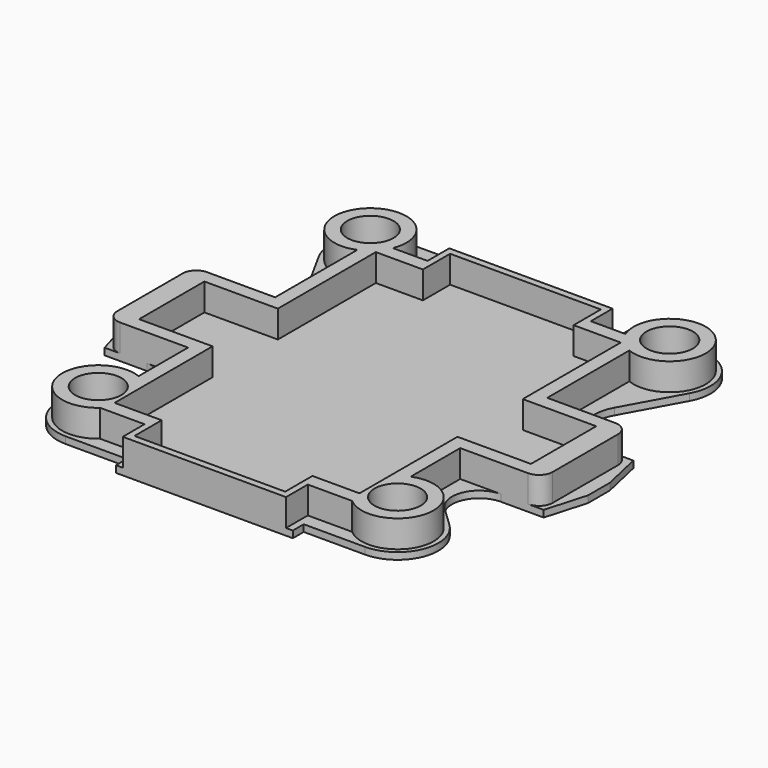
from build123d import *

# Parameters (mm, degrees)
F1_DEPTH = 3.175
F3_DEPTH = 12.7
F5_DEPTH = 12.7
F6_R     = 10.795
F7_DEPTH = 12.7


with BuildPart() as f1:
    # F0 (on Top) → F1 (new body)
    with BuildSketch(Plane.XY):
        with BuildLine():
            Line((72.204018, 53.623151), (86.545982, 79.726849))
            ThreePointArc((86.545982, 79.726849), (86.245899, 98.599329), (69.85, 107.95))
            Line((69.85, 107.95), (38.1, 107.95))
            Line((38.1, 107.95), (38.1, 95.25))
            Line((38.1, 95.25), (-38.1, 95.25))
            Line((-38.1, 95.25), (-38.1, 107.95))
            Line((-38.1, 107.95), (-69.85, 107.95))
            ThreePointArc((-69.85, 107.95), (-86.245899, 98.599329), (-86.545982, 79.726849))
            Line((-86.545982, 79.726849), (-72.204018, 53.623151))
            ThreePointArc((-72.204018, 53.623151), (-72.504101, 34.750671), (-88.9, 25.4))
            Line((-88.9, 25.4), (-103.66375, 25.4))
            Line((-103.66375, 25.4), (-107.95, 6.35))
            Line((-107.95, 6.35), (-107.95, -6.35))
            Line((-107.95, -6.35), (-102.467009, -25.4))
            Line((-102.467009, -25.4), (-82.55, -25.4))
            ThreePointArc((-82.55, -25.4), (-70.758346, -33.383338), (-73.791379, -47.296552))
            Line((-73.791379, -47.296552), (-82.987931, -56.055172))
            ThreePointArc((-82.987931, -56.055172), (-87.537481, -76.924992), (-69.85, -88.9))
            Line((-69.85, -88.9), (-41.275, -88.9))
            Line((-41.275, -88.9), (-41.275, -95.25))
            Line((-41.275, -95.25), (41.275, -95.25))
            Line((41.275, -95.25), (41.275, -88.9))
            Line((41.275, -88.9), (69.85, -88.9))
            ThreePointArc((69.85, -88.9), (87.537481, -76.924992), (82.987931, -56.055172))
            Line((82.987931, -56.055172), (73.791379, -47.296552))
            ThreePointArc((73.791379, -47.296552), (70.758346, -33.383338), (82.55, -25.4))
            Line((82.55, -25.4), (102.467009, -25.4))
            Line((102.467009, -25.4), (107.95, -6.35))
            Line((107.95, -6.35), (107.95, 6.35))
            Line((107.95, 6.35), (103.66375, 25.4))
            Line((103.66375, 25.4), (88.9, 25.4))
            ThreePointArc((88.9, 25.4), (72.504101, 34.750671), (72.204018, 53.623151))
        make_face()
    extrude(amount=F1_DEPTH)

    # F2 (on face) → F3 (join)
    with BuildSketch(Plane.XY.offset(3.175)):
        with BuildLine():
            Line((-38.1, 82.55), (-54.266603, 82.55))
            ThreePointArc((-54.266603, 82.55), (-81.748839, 100.798839), (-63.5, 73.316603))
            Line((-63.5, 73.316603), (-63.5, 25.4))
            Line((-63.5, 25.4), (-88.9, 25.4))
            Line((-88.9, 25.4), (-95.25, 25.4))
            ThreePointArc((-95.25, 25.4), (-99.740128, 23.540128), (-101.6, 19.05))
            Line((-101.6, 19.05), (-101.6, -19.05))
            ThreePointArc((-101.6, -19.05), (-99.740128, -23.540128), (-95.25, -25.4))
            Line((-95.25, -25.4), (-82.55, -25.4))
            Line((-82.55, -25.4), (-63.5, -25.4))
            Line((-63.5, -25.4), (-63.5, -54.266603))
            ThreePointArc((-63.5, -54.266603), (-86.450842, -72.602597), (-58.81031, -82.55))
            Line((-58.81031, -82.55), (-38.1, -82.55))
            Line((-38.1, -82.55), (-38.1, -95.25))
            Line((-38.1, -95.25), (38.1, -95.25))
            Line((38.1, -95.25), (38.1, -82.55))
            Line((38.1, -82.55), (58.81031, -82.55))
            ThreePointArc((58.81031, -82.55), (86.450842, -72.602597), (63.5, -54.266603))
            Line((63.5, -54.266603), (63.5, -25.4))
            Line((63.5, -25.4), (82.55, -25.4))
            Line((82.55, -25.4), (95.25, -25.4))
            ThreePointArc((95.25, -25.4), (99.740128, -23.540128), (101.6, -19.05))
            Line((101.6, -19.05), (101.6, 19.05))
            ThreePointArc((101.6, 19.05), (99.740128, 23.540128), (95.25, 25.4))
            Line((95.25, 25.4), (88.9, 25.4))
            Line((88.9, 25.4), (63.5, 25.4))
            Line((63.5, 25.4), (63.5, 73.316603))
            ThreePointArc((63.5, 73.316603), (81.748839, 100.798839), (54.266603, 82.55))
            Line((54.266603, 82.55), (38.1, 82.55))
            Line((38.1, 82.55), (38.1, 95.25))
            Line((38.1, 95.25), (-38.1, 95.25))
            Line((-38.1, 95.25), (-38.1, 82.55))
        make_face()
    extrude(amount=F3_DEPTH)

    # F4 (on face) → F5 (cut)
    with BuildSketch(Plane.XY.offset(15.875)):
        Polygon((-35.179, 76.2), (-57.15, 76.2), (-57.15, 19.05), (-91.44, 19.05), (-91.44, -19.05), (-57.15, -19.05), (-57.15, -76.2), (-35.179, -76.2), (-35.179, -92.075), (35.179, -92.075), (35.179, -76.2), (57.15, -76.2), (57.15, -19.05), (91.44, -19.05), (91.44, 19.05), (57.15, 19.05), (57.15, 76.2), (35.179, 76.2), (35.179, 92.075), (-35.179, 92.075), align=None)
    extrude(amount=-F5_DEPTH, mode=Mode.SUBTRACT)

    # F6 (on face) → F7 (cut)
    with BuildSketch(Plane.XY.offset(15.875)):
        with Locations((-69.85, -69.85)):
            Circle(F6_R)
        with Locations((-69.85, 88.9)):
            Circle(F6_R)
        with Locations((69.85, 88.9)):
            Circle(F6_R)
        with Locations((69.85, -69.85)):
            Circle(F6_R)
    extrude(amount=-F7_DEPTH, mode=Mode.SUBTRACT)


solid = f1.part
